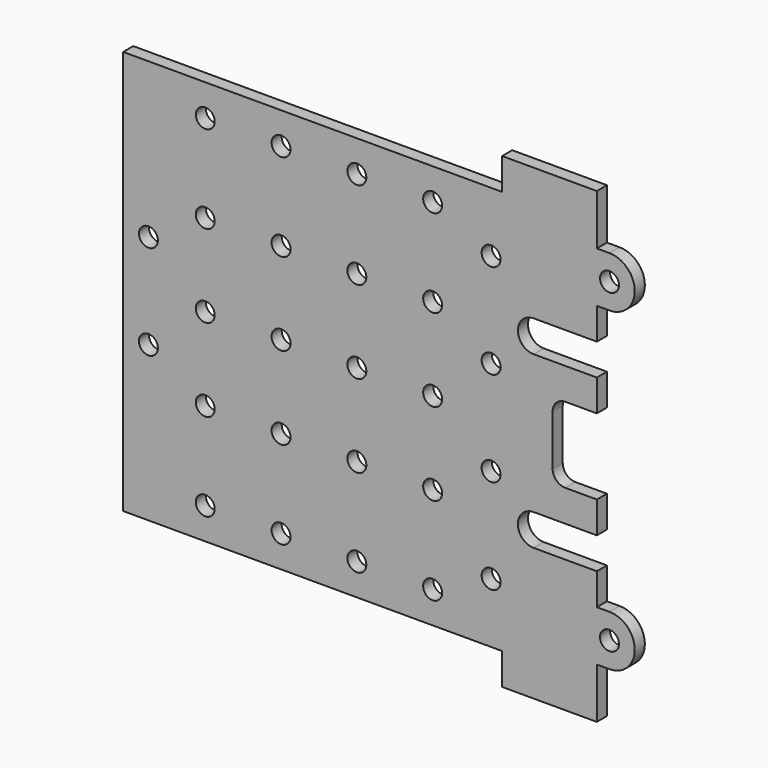
from build123d import *

# Parameters (mm, degrees)
F0_R     = 1.5
F1_DEPTH = 2
F2_R     = 2


with BuildPart() as f1:
    # F0 (on Front) → F1 (new body)
    with BuildSketch(Plane.XZ):
        with BuildLine():
            Line((22.5, 16), (-37.5, 16))
            Line((-37.5, 16), (-37.5, -16))
            Line((-37.5, -16), (-26, -16))
            ThreePointArc((-26, -16), (-24.5, -14.5), (-23, -16))
            Line((-23, -16), (-14, -16))
            ThreePointArc((-14, -16), (-12.5, -14.5), (-11, -16))
            Line((-11, -16), (-2, -16))
            ThreePointArc((-2, -16), (-0.5, -14.5), (1, -16))
            Line((1, -16), (10, -16))
            ThreePointArc((10, -16), (11.5, -14.5), (13, -16))
            Line((13, -16), (30.5, -16))
            Line((30.5, -16), (30.5, -10))
            Line((30.5, -10), (37.5, -10))
            Line((37.5, -10), (37.5, -5))
            Line((37.5, -5), (27.5, -5))
            ThreePointArc((27.5, -5), (25, -2.5), (27.5, 0))
            Line((27.5, 0), (37.5, 0))
            Line((37.5, 0), (37.5, 5))
            Line((37.5, 5), (39.5, 5))
            ThreePointArc((39.5, 5), (43.5, 9), (39.5, 13))
            Line((39.5, 13), (37.5, 13))
            Line((37.5, 13), (37.5, 16))
            Line((37.5, 16), (37.5, 21))
            Line((37.5, 21), (22.5, 21))
            Line((22.5, 21), (22.5, 16))
        make_face()
        with Locations((-33.5, -8.5)):
            Circle(F0_R, mode=Mode.SUBTRACT)
        with Locations((-24.5, -2.9)):
            Circle(F0_R, mode=Mode.SUBTRACT)
        with Locations((-12.5, -2.9)):
            Circle(F0_R, mode=Mode.SUBTRACT)
        with Locations((-0.5, -2.9)):
            Circle(F0_R, mode=Mode.SUBTRACT)
        with Locations((-24.5, 11)):
            Circle(F0_R, mode=Mode.SUBTRACT)
        with Locations((-12.5, 11)):
            Circle(F0_R, mode=Mode.SUBTRACT)
        with Locations((-0.5, 11)):
            Circle(F0_R, mode=Mode.SUBTRACT)
        with Locations((20.758312, -8.5)):
            Circle(F0_R, mode=Mode.SUBTRACT)
        with Locations((11.5, -2.9)):
            Circle(F0_R, mode=Mode.SUBTRACT)
        with Locations((11.5, 11)):
            Circle(F0_R, mode=Mode.SUBTRACT)
        with Locations((20.758312, 6.5)):
            Circle(F0_R, mode=Mode.SUBTRACT)
        with Locations((39.5, 9)):
            Circle(F0_R, mode=Mode.SUBTRACT)
        with BuildLine():
            Line((-26, -16), (-37.5, -16))
            Line((-37.5, -16), (-37.5, -48))
            Line((-37.5, -48), (22.5, -48))
            Line((22.5, -48), (22.5, -53))
            Line((22.5, -53), (37.5, -53))
            Line((37.5, -53), (37.5, -48))
            Line((37.5, -48), (37.5, -45))
            Line((37.5, -45), (39.5, -45))
            ThreePointArc((39.5, -45), (43.5, -41), (39.5, -37))
            Line((39.5, -37), (37.5, -37))
            Line((37.5, -37), (37.5, -32))
            Line((37.5, -32), (27.5, -32))
            ThreePointArc((27.5, -32), (25, -29.5), (27.5, -27))
            Line((27.5, -27), (37.5, -27))
            Line((37.5, -27), (37.5, -22))
            Line((37.5, -22), (30.5, -22))
            Line((30.5, -22), (30.5, -16))
            Line((30.5, -16), (13, -16))
            ThreePointArc((13, -16), (11.5, -17.5), (10, -16))
            Line((10, -16), (1, -16))
            ThreePointArc((1, -16), (-0.5, -17.5), (-2, -16))
            Line((-2, -16), (-11, -16))
            ThreePointArc((-11, -16), (-12.5, -17.5), (-14, -16))
            Line((-14, -16), (-23, -16))
            ThreePointArc((-23, -16), (-24.5, -17.5), (-26, -16))
        make_face()
        with Locations((-24.5, -43)):
            Circle(F0_R, mode=Mode.SUBTRACT)
        with Locations((-12.5, -43)):
            Circle(F0_R, mode=Mode.SUBTRACT)
        with Locations((-0.5, -43)):
            Circle(F0_R, mode=Mode.SUBTRACT)
        with Locations((-24.5, -29.1)):
            Circle(F0_R, mode=Mode.SUBTRACT)
        with Locations((-33.5, -23.5)):
            Circle(F0_R, mode=Mode.SUBTRACT)
        with Locations((-12.5, -29.1)):
            Circle(F0_R, mode=Mode.SUBTRACT)
        with Locations((-0.5, -29.1)):
            Circle(F0_R, mode=Mode.SUBTRACT)
        with Locations((11.5, -43)):
            Circle(F0_R, mode=Mode.SUBTRACT)
        with Locations((20.758312, -38.5)):
            Circle(F0_R, mode=Mode.SUBTRACT)
        with Locations((39.5, -41)):
            Circle(F0_R, mode=Mode.SUBTRACT)
        with Locations((11.5, -29.1)):
            Circle(F0_R, mode=Mode.SUBTRACT)
        with Locations((20.758312, -23.5)):
            Circle(F0_R, mode=Mode.SUBTRACT)
    extrude(amount=F1_DEPTH)

    # F2
    f2_edges = [f1.edges().sort_by_distance(p)[0] for p in [
        (30.5, -1, -22),
        (30.5, -1, -10),
    ]]
    fillet(f2_edges, radius=F2_R)


solid = f1.part
